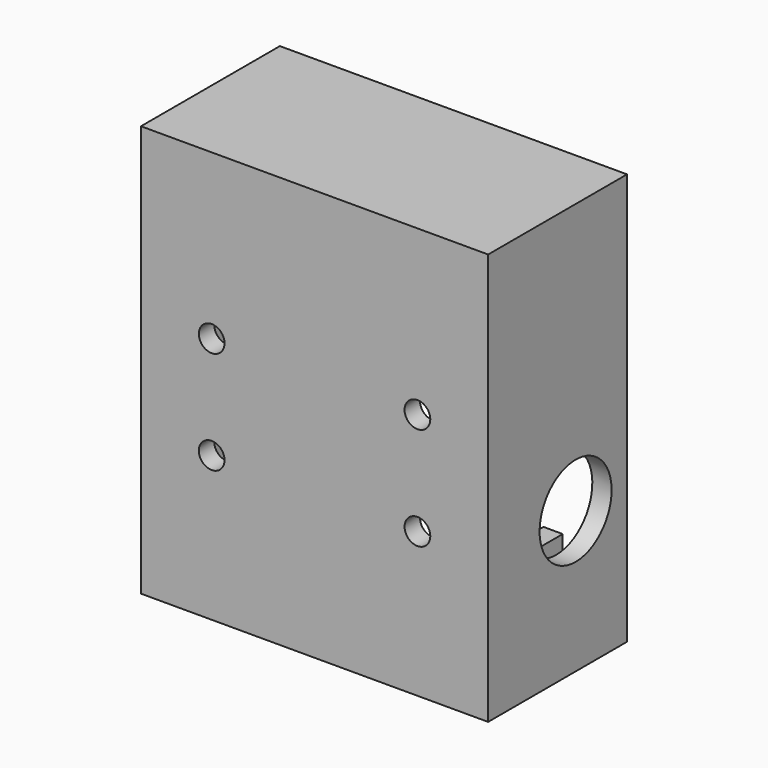
from build123d import *

# Parameters (mm, degrees)
SKETCH_W             = 64
SKETCH_H             = 54
PAD_DEPTH            = 27
POCKET_DEPTH         = 24
SKETCH002_R          = 2.1
POCKET001_DEPTH      = 3
SKETCH003_R          = 7
POCKET002_DEPTH      = 3
SKETCH004_R          = 2
PAD001_DEPTH         = 5
SKETCH011_R          = 2
POCKET006_DEPTH      = 3
BODY_PITCH_ANGLE     = -90
BODY_PLACEMENT_ANGLE = -90


with BuildPart() as part:
    # Sketch → Pad (new body)
    with BuildSketch(Plane.XY):
        with Locations((20, 15)):
            Rectangle(SKETCH_W, SKETCH_H)
    extrude(amount=-PAD_DEPTH)

    # Sketch001 (on Face5 of Pad) → Pocket (cut)
    with BuildSketch(Plane.XY):
        Polygon((-9, 32), (-9, 39), (49, 39), (49, 32), (40.5, 32), (40.5, 29), (49, 29), (49, -9), (-9, -9), (-9, 29), (-0.5, 29), (-0.5, 32), align=None)
    extrude(amount=-POCKET_DEPTH, mode=Mode.SUBTRACT)

    # Sketch002 (on Face16 of Pocket) → Pocket001 (cut)
    with BuildSketch(Plane.XZ.offset(-29)):
        with Locations((45.3, -5.5)):
            Circle(SKETCH002_R)
        with Locations((45.3, -14.5)):
            Circle(SKETCH002_R)
        with Locations((-5, -5.5)):
            Circle(SKETCH002_R)
        with Locations((-5, -14.5)):
            Circle(SKETCH002_R)
    extrude(amount=-POCKET001_DEPTH, mode=Mode.SUBTRACT)

    # Sketch003 (on Face1 of Pocket001) → Pocket002 (cut)
    with BuildSketch(Plane(origin=(0, 42, 0), x_dir=(-1, 0, 0), z_dir=(0, 1, 0))):
        with Locations((-10, -10)):
            Circle(SKETCH003_R)
    extrude(amount=-POCKET002_DEPTH, mode=Mode.SUBTRACT)

    # Sketch004 (on Face7 of Pocket002) → Pad001 (join)
    with BuildSketch(Plane.XZ.offset(12)):
        with Locations((10, -10)):
            Circle(SKETCH004_R)
    extrude(amount=PAD001_DEPTH)

    # Sketch011 (on Face5 of Pocket) → Pocket006 (cut)
    with BuildSketch(Plane(origin=(0, 0, -27), x_dir=(1, 0, 0), z_dir=(0, 0, -1))):
        with Locations((26.5, 1)):
            Circle(SKETCH011_R)
        with Locations((10.5, 1)):
            Circle(SKETCH011_R)
        with Locations((26.5, -31)):
            Circle(SKETCH011_R)
        with Locations((10.5, -31)):
            Circle(SKETCH011_R)
    extrude(amount=-POCKET006_DEPTH, mode=Mode.SUBTRACT)


with BuildPart() as part_1:
    # Body pitch: moved
    add(part.part.rotate(Axis((0, 0, 0), (0, 1, 0)), BODY_PITCH_ANGLE))


with BuildPart() as part_2:
    # Body placement: moved
    add(part_1.part.moved(Location((-15, 27, -36.5))).rotate(Axis((-15, 27, -36.5), (0, 0, 1)), BODY_PLACEMENT_ANGLE))


solid = part_2.part
